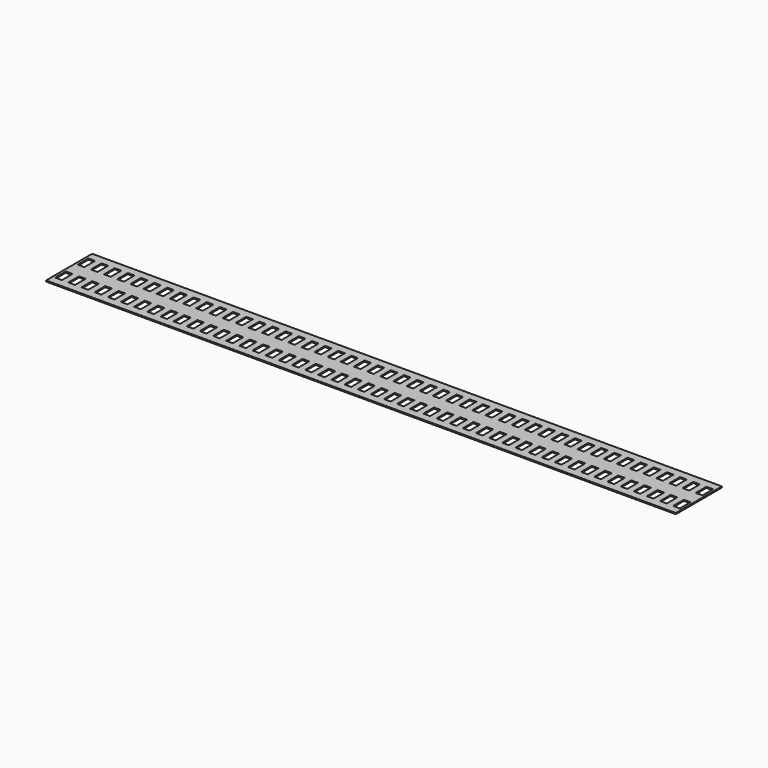
from build123d import *

# Parameters (mm, degrees)
F0_W     = 284
F0_H     = 13
F0_W_2   = 3
F0_H_2   = 6
F1_DEPTH = 0.5


with BuildPart() as f1:
    # F0 (on Top) → F1 (new body)
    with BuildSketch(Plane.XY):
        with Locations((0, -6.5)):
            Rectangle(F0_W, F0_H)
        with Locations((-139.3, -6.352697)):
            Rectangle(F0_W_2, F0_H_2, mode=Mode.SUBTRACT)
        with Locations((-133.37, -6.352697)):
            Rectangle(F0_W_2, F0_H_2, mode=Mode.SUBTRACT)
        with Locations((-127.44, -6.352697)):
            Rectangle(F0_W_2, F0_H_2, mode=Mode.SUBTRACT)
        with Locations((-121.51, -6.352697)):
            Rectangle(F0_W_2, F0_H_2, mode=Mode.SUBTRACT)
        with Locations((-115.58, -6.352697)):
            Rectangle(F0_W_2, F0_H_2, mode=Mode.SUBTRACT)
        with Locations((-109.65, -6.352697)):
            Rectangle(F0_W_2, F0_H_2, mode=Mode.SUBTRACT)
        with Locations((-103.72, -6.352697)):
            Rectangle(F0_W_2, F0_H_2, mode=Mode.SUBTRACT)
        with Locations((-97.79, -6.352697)):
            Rectangle(F0_W_2, F0_H_2, mode=Mode.SUBTRACT)
        with Locations((-91.86, -6.352697)):
            Rectangle(F0_W_2, F0_H_2, mode=Mode.SUBTRACT)
        with Locations((-85.93, -6.352697)):
            Rectangle(F0_W_2, F0_H_2, mode=Mode.SUBTRACT)
        with Locations((-80, -6.352697)):
            Rectangle(F0_W_2, F0_H_2, mode=Mode.SUBTRACT)
        with Locations((-74.07, -6.352697)):
            Rectangle(F0_W_2, F0_H_2, mode=Mode.SUBTRACT)
        with Locations((-68.14, -6.352697)):
            Rectangle(F0_W_2, F0_H_2, mode=Mode.SUBTRACT)
        with Locations((-62.21, -6.352697)):
            Rectangle(F0_W_2, F0_H_2, mode=Mode.SUBTRACT)
        with Locations((-56.28, -6.352697)):
            Rectangle(F0_W_2, F0_H_2, mode=Mode.SUBTRACT)
        with Locations((-50.35, -6.352697)):
            Rectangle(F0_W_2, F0_H_2, mode=Mode.SUBTRACT)
        with Locations((-44.42, -6.352697)):
            Rectangle(F0_W_2, F0_H_2, mode=Mode.SUBTRACT)
        with Locations((-38.49, -6.352697)):
            Rectangle(F0_W_2, F0_H_2, mode=Mode.SUBTRACT)
        with Locations((-32.56, -6.352697)):
            Rectangle(F0_W_2, F0_H_2, mode=Mode.SUBTRACT)
        with Locations((-26.63, -6.352697)):
            Rectangle(F0_W_2, F0_H_2, mode=Mode.SUBTRACT)
        with Locations((-20.7, -6.352697)):
            Rectangle(F0_W_2, F0_H_2, mode=Mode.SUBTRACT)
        with Locations((-14.77, -6.352697)):
            Rectangle(F0_W_2, F0_H_2, mode=Mode.SUBTRACT)
        with Locations((-8.84, -6.352697)):
            Rectangle(F0_W_2, F0_H_2, mode=Mode.SUBTRACT)
        with Locations((-2.91, -6.352697)):
            Rectangle(F0_W_2, F0_H_2, mode=Mode.SUBTRACT)
        with Locations((3.02, -6.352697)):
            Rectangle(F0_W_2, F0_H_2, mode=Mode.SUBTRACT)
        with Locations((8.95, -6.352697)):
            Rectangle(F0_W_2, F0_H_2, mode=Mode.SUBTRACT)
        with Locations((14.88, -6.352697)):
            Rectangle(F0_W_2, F0_H_2, mode=Mode.SUBTRACT)
        with Locations((20.81, -6.352697)):
            Rectangle(F0_W_2, F0_H_2, mode=Mode.SUBTRACT)
        with Locations((26.74, -6.352697)):
            Rectangle(F0_W_2, F0_H_2, mode=Mode.SUBTRACT)
        with Locations((32.67, -6.352697)):
            Rectangle(F0_W_2, F0_H_2, mode=Mode.SUBTRACT)
        with Locations((38.6, -6.352697)):
            Rectangle(F0_W_2, F0_H_2, mode=Mode.SUBTRACT)
        with Locations((44.53, -6.352697)):
            Rectangle(F0_W_2, F0_H_2, mode=Mode.SUBTRACT)
        with Locations((50.46, -6.352697)):
            Rectangle(F0_W_2, F0_H_2, mode=Mode.SUBTRACT)
        with Locations((56.39, -6.352697)):
            Rectangle(F0_W_2, F0_H_2, mode=Mode.SUBTRACT)
        with Locations((62.32, -6.352697)):
            Rectangle(F0_W_2, F0_H_2, mode=Mode.SUBTRACT)
        with Locations((68.25, -6.352697)):
            Rectangle(F0_W_2, F0_H_2, mode=Mode.SUBTRACT)
        with Locations((74.18, -6.352697)):
            Rectangle(F0_W_2, F0_H_2, mode=Mode.SUBTRACT)
        with Locations((80.11, -6.352697)):
            Rectangle(F0_W_2, F0_H_2, mode=Mode.SUBTRACT)
        with Locations((86.04, -6.352697)):
            Rectangle(F0_W_2, F0_H_2, mode=Mode.SUBTRACT)
        with Locations((91.97, -6.352697)):
            Rectangle(F0_W_2, F0_H_2, mode=Mode.SUBTRACT)
        with Locations((97.9, -6.352697)):
            Rectangle(F0_W_2, F0_H_2, mode=Mode.SUBTRACT)
        with Locations((103.83, -6.352697)):
            Rectangle(F0_W_2, F0_H_2, mode=Mode.SUBTRACT)
        with Locations((109.76, -6.352697)):
            Rectangle(F0_W_2, F0_H_2, mode=Mode.SUBTRACT)
        with Locations((115.69, -6.352697)):
            Rectangle(F0_W_2, F0_H_2, mode=Mode.SUBTRACT)
        with Locations((121.62, -6.352697)):
            Rectangle(F0_W_2, F0_H_2, mode=Mode.SUBTRACT)
        with Locations((127.55, -6.352697)):
            Rectangle(F0_W_2, F0_H_2, mode=Mode.SUBTRACT)
        with Locations((133.48, -6.352697)):
            Rectangle(F0_W_2, F0_H_2, mode=Mode.SUBTRACT)
        with Locations((139.41, -6.352697)):
            Rectangle(F0_W_2, F0_H_2, mode=Mode.SUBTRACT)
        with Locations((0, 6.5)):
            Rectangle(F0_W, F0_H)
        with Locations((-139.3, 6.352697)):
            Rectangle(F0_W_2, F0_H_2, mode=Mode.SUBTRACT)
        with Locations((-133.37, 6.352697)):
            Rectangle(F0_W_2, F0_H_2, mode=Mode.SUBTRACT)
        with Locations((-127.44, 6.352697)):
            Rectangle(F0_W_2, F0_H_2, mode=Mode.SUBTRACT)
        with Locations((-121.51, 6.352697)):
            Rectangle(F0_W_2, F0_H_2, mode=Mode.SUBTRACT)
        with Locations((-115.58, 6.352697)):
            Rectangle(F0_W_2, F0_H_2, mode=Mode.SUBTRACT)
        with Locations((-109.65, 6.352697)):
            Rectangle(F0_W_2, F0_H_2, mode=Mode.SUBTRACT)
        with Locations((-103.72, 6.352697)):
            Rectangle(F0_W_2, F0_H_2, mode=Mode.SUBTRACT)
        with Locations((-97.79, 6.352697)):
            Rectangle(F0_W_2, F0_H_2, mode=Mode.SUBTRACT)
        with Locations((-91.86, 6.352697)):
            Rectangle(F0_W_2, F0_H_2, mode=Mode.SUBTRACT)
        with Locations((-85.93, 6.352697)):
            Rectangle(F0_W_2, F0_H_2, mode=Mode.SUBTRACT)
        with Locations((-80, 6.352697)):
            Rectangle(F0_W_2, F0_H_2, mode=Mode.SUBTRACT)
        with Locations((-74.07, 6.352697)):
            Rectangle(F0_W_2, F0_H_2, mode=Mode.SUBTRACT)
        with Locations((-68.14, 6.352697)):
            Rectangle(F0_W_2, F0_H_2, mode=Mode.SUBTRACT)
        with Locations((-62.21, 6.352697)):
            Rectangle(F0_W_2, F0_H_2, mode=Mode.SUBTRACT)
        with Locations((-56.28, 6.352697)):
            Rectangle(F0_W_2, F0_H_2, mode=Mode.SUBTRACT)
        with Locations((-50.35, 6.352697)):
            Rectangle(F0_W_2, F0_H_2, mode=Mode.SUBTRACT)
        with Locations((-44.42, 6.352697)):
            Rectangle(F0_W_2, F0_H_2, mode=Mode.SUBTRACT)
        with Locations((-38.49, 6.352697)):
            Rectangle(F0_W_2, F0_H_2, mode=Mode.SUBTRACT)
        with Locations((-32.56, 6.352697)):
            Rectangle(F0_W_2, F0_H_2, mode=Mode.SUBTRACT)
        with Locations((-26.63, 6.352697)):
            Rectangle(F0_W_2, F0_H_2, mode=Mode.SUBTRACT)
        with Locations((-20.7, 6.352697)):
            Rectangle(F0_W_2, F0_H_2, mode=Mode.SUBTRACT)
        with Locations((-14.77, 6.352697)):
            Rectangle(F0_W_2, F0_H_2, mode=Mode.SUBTRACT)
        with Locations((-8.84, 6.352697)):
            Rectangle(F0_W_2, F0_H_2, mode=Mode.SUBTRACT)
        with Locations((-2.91, 6.352697)):
            Rectangle(F0_W_2, F0_H_2, mode=Mode.SUBTRACT)
        with Locations((3.02, 6.352697)):
            Rectangle(F0_W_2, F0_H_2, mode=Mode.SUBTRACT)
        with Locations((8.95, 6.352697)):
            Rectangle(F0_W_2, F0_H_2, mode=Mode.SUBTRACT)
        with Locations((14.88, 6.352697)):
            Rectangle(F0_W_2, F0_H_2, mode=Mode.SUBTRACT)
        with Locations((20.81, 6.352697)):
            Rectangle(F0_W_2, F0_H_2, mode=Mode.SUBTRACT)
        with Locations((26.74, 6.352697)):
            Rectangle(F0_W_2, F0_H_2, mode=Mode.SUBTRACT)
        with Locations((32.67, 6.352697)):
            Rectangle(F0_W_2, F0_H_2, mode=Mode.SUBTRACT)
        with Locations((38.6, 6.352697)):
            Rectangle(F0_W_2, F0_H_2, mode=Mode.SUBTRACT)
        with Locations((44.53, 6.352697)):
            Rectangle(F0_W_2, F0_H_2, mode=Mode.SUBTRACT)
        with Locations((50.46, 6.352697)):
            Rectangle(F0_W_2, F0_H_2, mode=Mode.SUBTRACT)
        with Locations((56.39, 6.352697)):
            Rectangle(F0_W_2, F0_H_2, mode=Mode.SUBTRACT)
        with Locations((62.32, 6.352697)):
            Rectangle(F0_W_2, F0_H_2, mode=Mode.SUBTRACT)
        with Locations((68.25, 6.352697)):
            Rectangle(F0_W_2, F0_H_2, mode=Mode.SUBTRACT)
        with Locations((74.18, 6.352697)):
            Rectangle(F0_W_2, F0_H_2, mode=Mode.SUBTRACT)
        with Locations((80.11, 6.352697)):
            Rectangle(F0_W_2, F0_H_2, mode=Mode.SUBTRACT)
        with Locations((86.04, 6.352697)):
            Rectangle(F0_W_2, F0_H_2, mode=Mode.SUBTRACT)
        with Locations((91.97, 6.352697)):
            Rectangle(F0_W_2, F0_H_2, mode=Mode.SUBTRACT)
        with Locations((97.9, 6.352697)):
            Rectangle(F0_W_2, F0_H_2, mode=Mode.SUBTRACT)
        with Locations((103.83, 6.352697)):
            Rectangle(F0_W_2, F0_H_2, mode=Mode.SUBTRACT)
        with Locations((109.76, 6.352697)):
            Rectangle(F0_W_2, F0_H_2, mode=Mode.SUBTRACT)
        with Locations((115.69, 6.352697)):
            Rectangle(F0_W_2, F0_H_2, mode=Mode.SUBTRACT)
        with Locations((121.62, 6.352697)):
            Rectangle(F0_W_2, F0_H_2, mode=Mode.SUBTRACT)
        with Locations((127.55, 6.352697)):
            Rectangle(F0_W_2, F0_H_2, mode=Mode.SUBTRACT)
        with Locations((133.48, 6.352697)):
            Rectangle(F0_W_2, F0_H_2, mode=Mode.SUBTRACT)
        with Locations((139.41, 6.352697)):
            Rectangle(F0_W_2, F0_H_2, mode=Mode.SUBTRACT)
    extrude(amount=F1_DEPTH)


solid = f1.part
